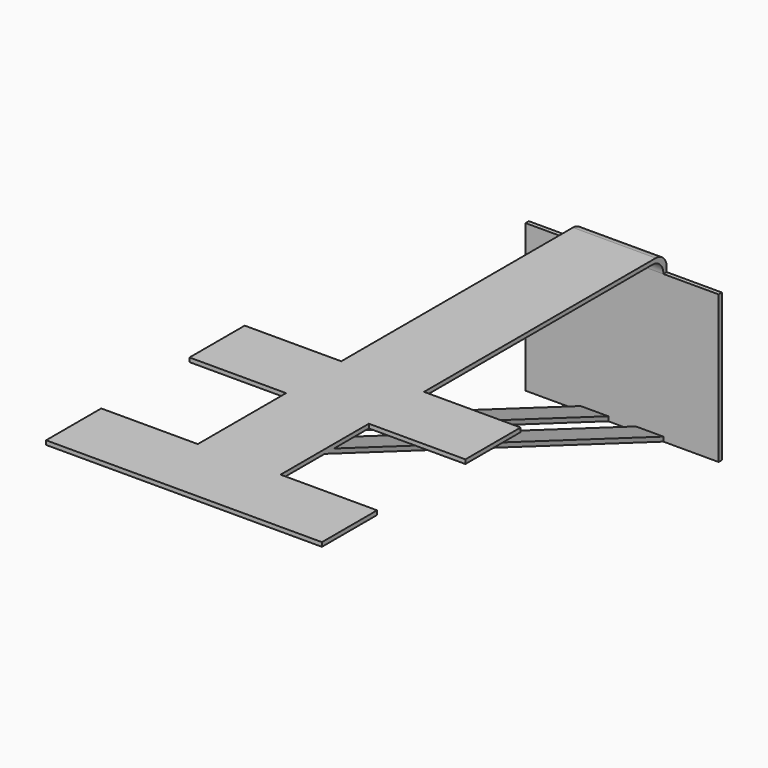
from build123d import *

# Parameters (mm, degrees)
F1_DEPTH  = 152.4
F2_W      = 254
F2_H      = 148.59
F3_DEPTH  = 504.19
F4_R      = 12.7
F5_W      = 3.81
F5_H      = 135.89
F6_DEPTH  = 50.8
F7_W      = 3.81
F7_H      = 135.89
F8_DEPTH  = 50.8
F10_DEPTH = 25.4
F12_DEPTH = 25.4


with BuildPart() as f1:
    # F0 (on Top) → F1 (new body)
    with BuildSketch(Plane.XY):
        Polygon((-88.9, -508), (165.1, -508), (165.1, -444.5), (76.2, -444.5), (76.2, -342.9), (165.1, -342.9), (165.1, -279.4), (76.2, -279.4), (76.2, 0), (0, 0), (0, -279.4), (-88.9, -279.4), (-88.9, -342.9), (0, -342.9), (0, -444.5), (-88.9, -444.5), align=None)
    extrude(amount=F1_DEPTH)

    # F2 (on face) → F3 (cut)
    with BuildSketch(Plane.XZ.offset(508)):
        with Locations((38.1, 74.295)):
            Rectangle(F2_W, F2_H)
    extrude(amount=-F3_DEPTH, mode=Mode.SUBTRACT)

    # F4
    f4_edges = [f1.edges().sort_by_distance(p)[0] for p in [
        (38.1, 0, 152.4),
        (38.1, -3.81, 148.59),
    ]]
    fillet(f4_edges, radius=F4_R)

    # F5 (on face) → F6 (join)
    with BuildSketch(Plane.YZ.offset(76.2)):
        with Locations((-1.905, 67.945)):
            Rectangle(F5_W, F5_H)
    extrude(amount=F6_DEPTH)

    # F7 (on face) → F8 (join)
    with BuildSketch(Plane(origin=(0, 0, 0), x_dir=(0, -1, 0), z_dir=(-1, 0, 0))):
        with Locations((1.905, 67.945)):
            Rectangle(F7_W, F7_H)
    extrude(amount=F8_DEPTH)

    # F9 (on face) → F10 (join)
    with BuildSketch(Plane.YZ.offset(76.2)):
        Polygon((-393.7, 148.59), (-3.81, 0), (-3.81, 4.07731), (-383.001416, 148.59), align=None)
    extrude(amount=-F10_DEPTH)

    # F11 (on face) → F12 (join)
    with BuildSketch(Plane(origin=(0, 0, 0), x_dir=(0, -1, 0), z_dir=(-1, 0, 0))):
        Polygon((3.81, 0), (393.7, 148.59), (383.001416, 148.59), (3.81, 4.07731), align=None)
    extrude(amount=-F12_DEPTH)


solid = f1.part
